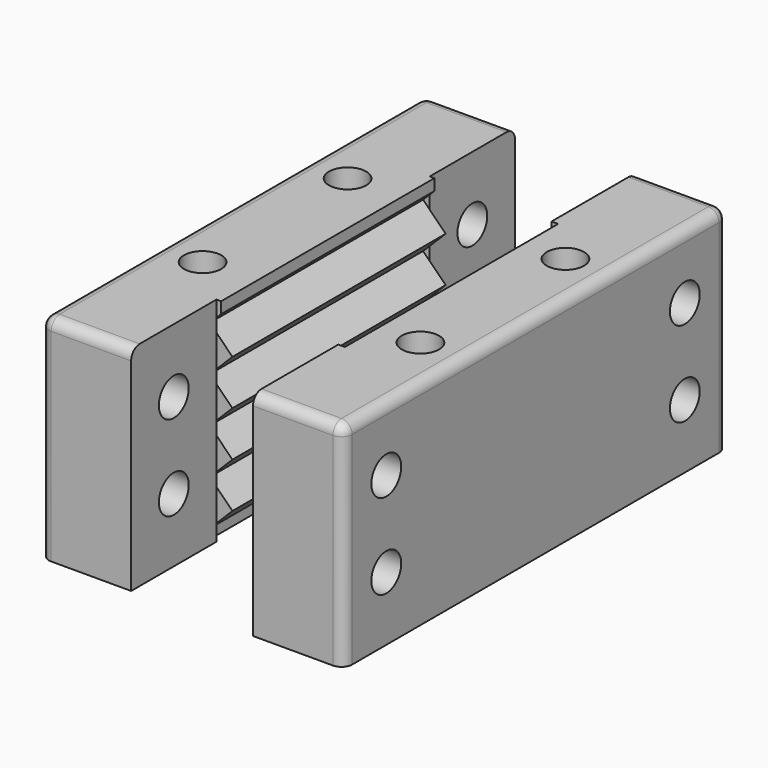
from build123d import *

# Parameters (mm, degrees)
F1_DEPTH  = 25
F2_W      = 8.5
F2_H      = 20
F3_DEPTH  = 10
F4_W      = 8.5
F4_H      = 20
F5_DEPTH  = 10
F6_R      = 1.75
F7_DEPTH  = 35
F8_R      = 1.75
F9_DEPTH  = 25
F10_R     = 1.75
F11_DEPTH = 13.2
F12_R     = 1.75
F13_DEPTH = 25
F14_R     = 1.75
F15_DEPTH = 25
F18_R     = 1
F18_2_R   = 1


with BuildPart() as f1:
    # F0 (on Front) → F1 (new body)
    with BuildSketch(Plane.XZ):
        Polygon((0, 20), (0, 0), (7.8786796564, 0), (7.8786796564, 0.908116908), (10, 3.0294372515), (7.8786796564, 5.1507575951), (10, 7.2720779386), (7.8786796564, 9.3933982822), (10, 11.5147186258), (7.8786796564, 13.6360389693), (10, 15.7573593129), (7.8786796564, 17.8786796564), (8.9393398282, 18.9393398282), (8.9393398282, 20), align=None)
    extrude(amount=F1_DEPTH)

    # F12 (on face) → F13 (cut)
    with BuildSketch(Plane.XY.offset(20)):
        with Locations((4, -4)):
            Circle(F12_R)
        with Locations((4, -21)):
            Circle(F12_R)
    extrude(amount=-F13_DEPTH, mode=Mode.SUBTRACT)


with BuildPart() as f1b:
    # F0 (on Front) → F1, piece 2 (new body)
    with BuildSketch(Plane.XZ):
        Polygon((20.5494001589, 3.0294372515), (20.5494001589, 0), (28.4284001589, 0), (28.4284001589, 20), (20.5494001589, 20), (18.4280798153, 17.8786796564), (20.5494001589, 15.7573593129), (18.4280798153, 13.6360389693), (20.5494001589, 11.5147186258), (18.4280798153, 9.3933982822), (20.5494001589, 7.2720779386), (18.4280798153, 5.1507575951), align=None)
    extrude(amount=F1_DEPTH)

    # F14 (on face) → F15 (cut)
    with BuildSketch(Plane.XY.offset(20)):
        with Locations((24.4284001589, -4)):
            Circle(F14_R)
        with Locations((24.4284001589, -21)):
            Circle(F14_R)
    extrude(amount=-F15_DEPTH, mode=Mode.SUBTRACT)


with BuildPart() as f3:
    # F2 (on face) → F3 (new body)
    with BuildSketch(Plane.XZ.offset(25)):
        with Locations((24.1784001589, 10)):
            Rectangle(F2_W, F2_H)
    extrude(amount=F3_DEPTH)

    # F10 (on face) → F11 (cut)
    with BuildSketch(Plane.YZ.offset(28.4284001589)):
        with Locations((-30, 14)):
            Circle(F10_R)
        with Locations((-30, 6)):
            Circle(F10_R)
        with Locations((5, 14)):
            Circle(F10_R)
        with Locations((5, 6)):
            Circle(F10_R)
    extrude(amount=-F11_DEPTH, mode=Mode.SUBTRACT)


with BuildPart() as f3b:
    # F2 (on face) → F3, piece 2 (new body)
    with BuildSketch(Plane.XZ.offset(25)):
        with Locations((4.25, 10)):
            Rectangle(F2_W, F2_H)
    extrude(amount=F3_DEPTH)

    # F8 (on face) → F9 (cut)
    with BuildSketch(Plane(origin=(0, 0, 0), x_dir=(0, -1, 0), z_dir=(-1, 0, 0))):
        with Locations((30, 14)):
            Circle(F8_R)
        with Locations((30, 6)):
            Circle(F8_R)
    extrude(amount=-F9_DEPTH, mode=Mode.SUBTRACT)


with BuildPart() as f5:
    # F4 (on face) → F5 (new body)
    with BuildSketch(Plane(origin=(0, 0, 0), x_dir=(-1, 0, 0), z_dir=(0, 1, 0))):
        with Locations((-24.1784001589, 10)):
            Rectangle(F4_W, F4_H)
    extrude(amount=F5_DEPTH)


with BuildPart() as f5b:
    # F4 (on face) → F5, piece 2 (new body)
    with BuildSketch(Plane(origin=(0, 0, 0), x_dir=(-1, 0, 0), z_dir=(0, 1, 0))):
        with Locations((-4.25, 10)):
            Rectangle(F4_W, F4_H)
    extrude(amount=F5_DEPTH)


with BuildPart() as f7_tool:
    # F6 (on face) → F7 (new body)
    with BuildSketch(Plane(origin=(0, 0, 0), x_dir=(0, -1, 0), z_dir=(-1, 0, 0))):
        with Locations((-5, 14)):
            Circle(F6_R)
        with Locations((-5, 6)):
            Circle(F6_R)
    extrude(amount=-F7_DEPTH)


with BuildPart() as f5_1:
    add(f5.part)

    # F7: cut by f7_tool
    add(f7_tool.part, mode=Mode.SUBTRACT)


with BuildPart() as f5b_1:
    add(f5b.part)

    # F7: cut by f7_tool
    add(f7_tool.part, mode=Mode.SUBTRACT)


with BuildPart() as f3b_1:
    add(f3b.part)

    # F16: union F1, F5b
    add(f1.part)
    add(f5b_1.part)

    # F18
    f18_edges = [f3b_1.edges().sort_by_distance(p)[0] for p in [
        (0, -12.5, 20),
        (4.25, 10, 20),
        (4.25, -35, 20),
        (0, 10, 10),
        (0, -35, 10),
    ]]
    fillet(f18_edges, radius=F18_R)


with BuildPart() as f3_1:
    add(f3.part)

    # F17: union F1b, F5
    add(f1b.part)
    add(f5_1.part)

    # F18#2
    f18_2_edges = [f3_1.edges().sort_by_distance(p)[0] for p in [
        (28.4284, -12.5, 20),
        (24.1784, -35, 20),
        (24.1784, 10, 20),
        (28.4284, 10, 10),
        (28.4284, -35, 10),
    ]]
    fillet(f18_2_edges, radius=F18_2_R)


solid = Compound([f3b_1.part, f3_1.part])
